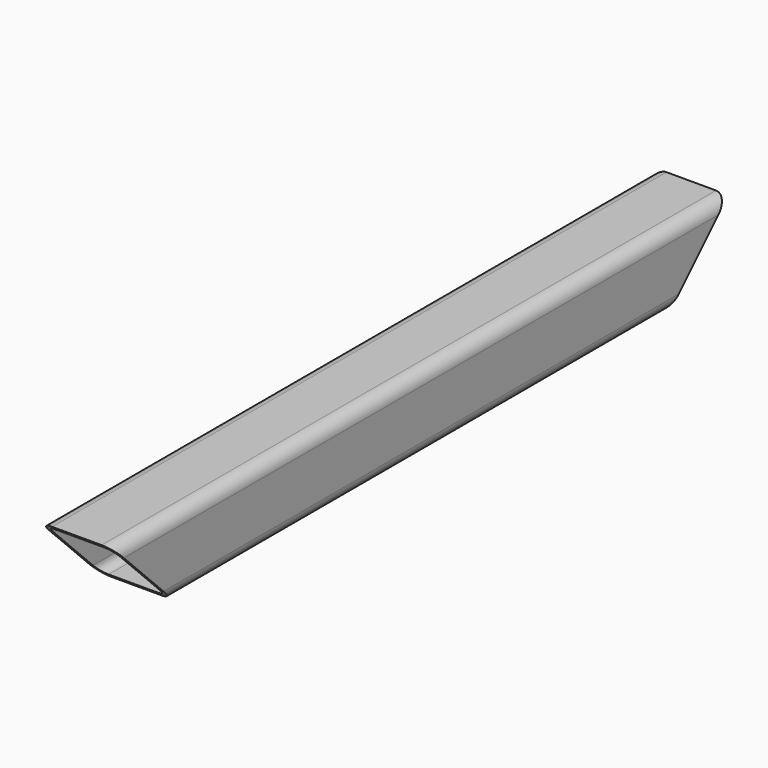
from build123d import *

# Parameters (mm, degrees)
F1_DEPTH = 310
F3_DEPTH = 30.001


with BuildPart() as f1:
    # F0 (on Front) → F1 (new body)
    with BuildSketch(Plane.XZ):
        with BuildLine():
            Line((-10, -15), (10, -15))
            ThreePointArc((10, -15), (13.535534, -13.535534), (15, -10))
            Line((15, -10), (15, 10))
            ThreePointArc((15, 10), (13.535534, 13.535534), (10, 15))
            Line((10, 15), (-10, 15))
            ThreePointArc((-10, 15), (-13.535534, 13.535534), (-15, 10))
            Line((-15, 10), (-15, -10))
            ThreePointArc((-15, -10), (-13.535534, -13.535534), (-10, -15))
        make_face()
        with BuildLine():
            ThreePointArc((-10, -13.5), (-12.474874, -12.474874), (-13.5, -10))
            Line((-13.5, -10), (-13.5, 10))
            ThreePointArc((-13.5, 10), (-12.474874, 12.474874), (-10, 13.5))
            Line((-10, 13.5), (10, 13.5))
            ThreePointArc((10, 13.5), (12.474874, 12.474874), (13.5, 10))
            Line((13.5, 10), (13.5, -10))
            ThreePointArc((13.5, -10), (12.474874, -12.474874), (10, -13.5))
            Line((10, -13.5), (-10, -13.5))
        make_face(mode=Mode.SUBTRACT)
    extrude(amount=F1_DEPTH)

    # F2 (on face) → F3 (cut, through all)
    with BuildSketch(Plane.YZ.offset(15)):
        Polygon((0, -15), (0, 15), (-30, -15), align=None)
        Polygon((-310, 15), (-310, -15), (-280, -15), align=None)
    extrude(amount=-F3_DEPTH, mode=Mode.SUBTRACT)


solid = f1.part
